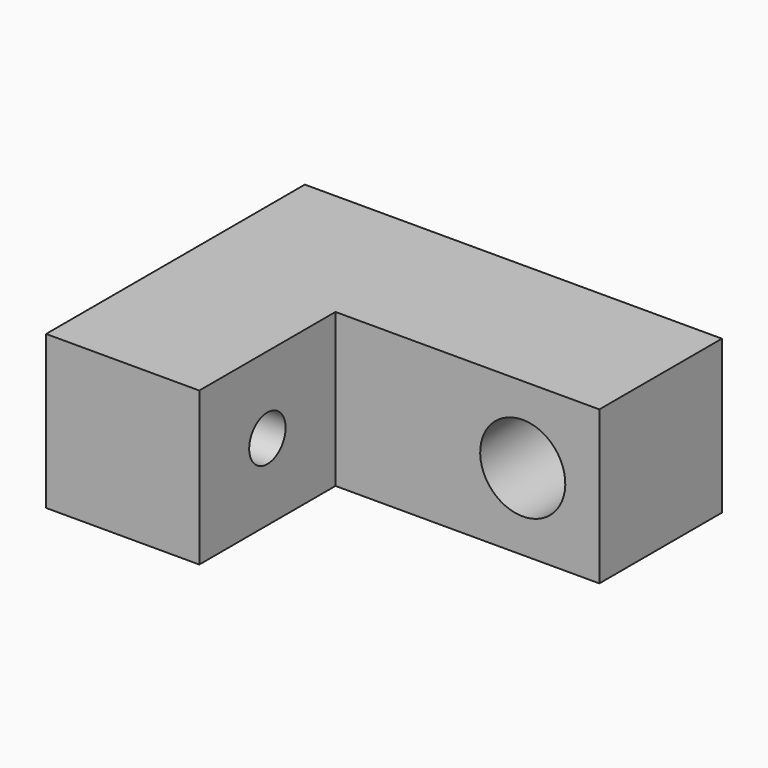
from build123d import *

# Parameters (mm, degrees)
SKETCH057_W             = 9
SKETCH057_H             = 19
SKETCH057_R             = 1.3375
PAD030_DEPTH            = 9
SKETCH058_W             = 9
SKETCH058_H             = 9
PAD031_DEPTH            = 15.5
SKETCH059_R             = 2.5
POCKET026_DEPTH         = 19.001
BODY013_PLACEMENT_ANGLE = 90


with BuildPart() as part:
    # Sketch057 → Pad030 (new body)
    with BuildSketch(Plane.XY):
        with Locations((4.5, 9.5)):
            Rectangle(SKETCH057_W, SKETCH057_H)
        with Locations((4.5, 5)):
            Circle(SKETCH057_R, mode=Mode.SUBTRACT)
    extrude(amount=PAD030_DEPTH)

    # Sketch058 (on Face7 of Pad030) → Pad031 (join)
    with BuildSketch(Plane.XY.offset(9)):
        with Locations((4.5, 14.5)):
            Rectangle(SKETCH058_W, SKETCH058_H)
    extrude(amount=PAD031_DEPTH)

    # Sketch059 (on Face11 of Pad031) → Pocket026 (cut, through all)
    with BuildSketch(Plane(origin=(0, 19, 0), x_dir=(-1, 0, 0), z_dir=(0, 1, 0))):
        with Locations((-4.5, 20)):
            Circle(SKETCH059_R)
    extrude(amount=-POCKET026_DEPTH, mode=Mode.SUBTRACT)


with BuildPart() as part_1:
    # Body013 placement: moved
    add(part.part.moved(Location((-144, 115, 69.5))).rotate(Axis((-144, 115, 69.5), (0, 1, 0)), BODY013_PLACEMENT_ANGLE))


solid = part_1.part
